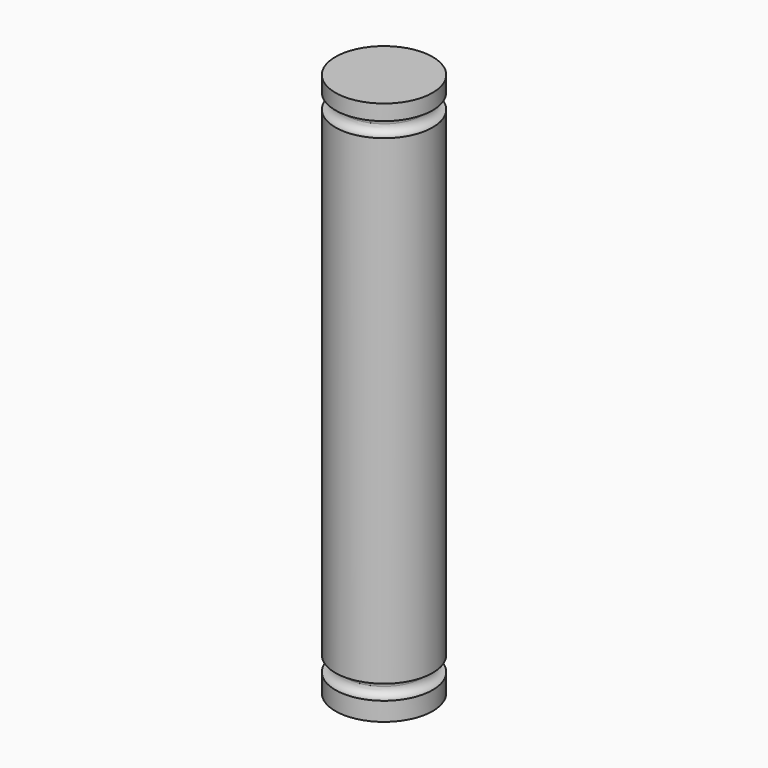
from build123d import *

# Parameters (mm, degrees)
F0_R     = 3.125
F1_DEPTH = 35
F2_R     = 0.5
F4_R     = 0.5


with BuildPart() as f1:
    # F0 (on Top) → F1 (new body)
    with BuildSketch(Plane.XY):
        Circle(F0_R)
    extrude(amount=F1_DEPTH)

    # F2 (on Front) → F3 (revolve, cut)
    with BuildSketch(Plane.XZ):
        with Locations((-3, 1.679414)):
            Circle(F2_R)
    revolve(axis=Axis((0, 0, 0.03065), (0, 0, 1)), mode=Mode.SUBTRACT)

    # F4 (on Front) → F5 (revolve, cut)
    with BuildSketch(Plane.XZ):
        with Locations((-3, 33.521309)):
            Circle(F4_R)
    revolve(axis=Axis((0, 0, 20.967992), (0, 0, 1)), mode=Mode.SUBTRACT)


solid = f1.part
